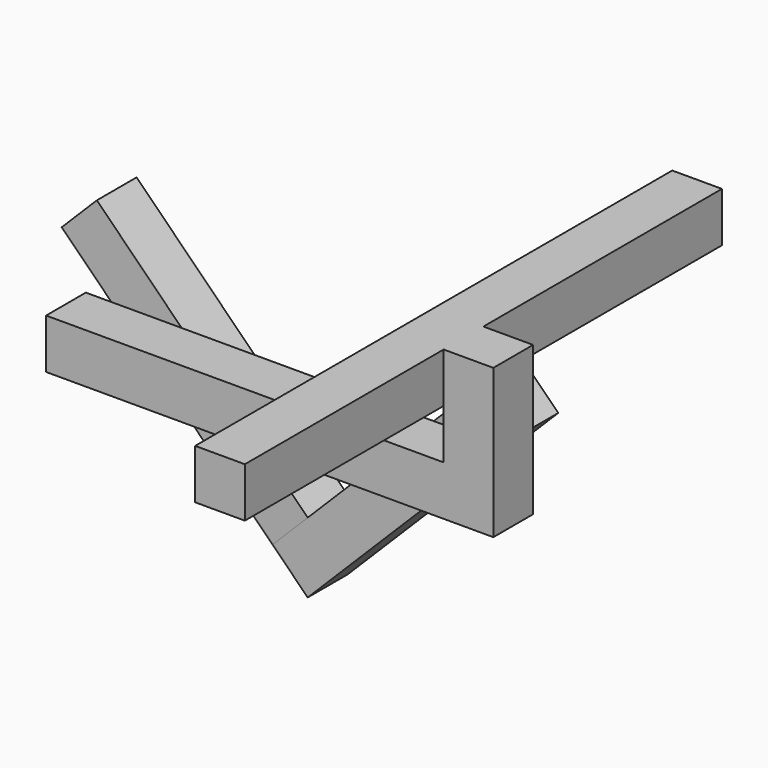
from build123d import *

# Parameters (mm, degrees)
F0_W      = 25.4
F0_H      = 25.4
F1_DEPTH  = 152.4
F2_W      = 25.4
F2_H      = 25.4
F3_DEPTH  = 25.4
F4_DEPTH  = 50.8
F5_W      = 25.4
F5_H      = 25.4
F6_DEPTH  = 203.2
F7_W      = 25.4
F7_H      = 25.4
F8_DEPTH  = 152.4
F9_ANGLE  = 45
F11_W     = 25.4
F11_H     = 25.4
F12_DEPTH = 152.4


with BuildPart() as f1:
    # F0 (on Front) → F1 (new body, symmetric)
    with BuildSketch(Plane.XZ):
        with Locations((-12.7, 12.7)):
            Rectangle(F0_W, F0_H)
    extrude(amount=F1_DEPTH, both=True)

    # F2 (on Top) → F3 (join)
    with BuildSketch(Plane.XY):
        with Locations((12.7, -12.7)):
            Rectangle(F2_W, F2_H)
    extrude(amount=F3_DEPTH)

    # F2 (on Top) → F4 (join)
    with BuildSketch(Plane.XY):
        with Locations((12.7, -12.7)):
            Rectangle(F2_W, F2_H)
    extrude(amount=-F4_DEPTH)

    # F5 (on Right) → F6 (join)
    with BuildSketch(Plane.YZ):
        with Locations((-12.7, -38.1)):
            Rectangle(F5_W, F5_H)
    extrude(amount=-F6_DEPTH)


with BuildPart() as f8:
    # F7 (on Top) → F8 (new body)
    with BuildSketch(Plane.XY):
        with Locations((12.7, 12.7)):
            Rectangle(F7_W, F7_H)
    extrude(amount=-F8_DEPTH)


with BuildPart() as f8_1:
    # F9: moved
    add(f8.part.rotate(Axis((0, 12.7, 0), (0, 1, 0)), F9_ANGLE))


with BuildPart() as f12:
    # F11 (on offset) → F12 (new body)
    with BuildSketch(Plane(origin=(-107.7630734528, 0, 107.7630734528), x_dir=(0.7071067812, 0, 0.7071067812), z_dir=(-0.7071067812, 0, 0.7071067812))):
        with Locations((-139.7, 12.7)):
            Rectangle(F11_W, F11_H)
    extrude(amount=-F12_DEPTH)


solid = Compound([f1.part, f8_1.part, f12.part])
